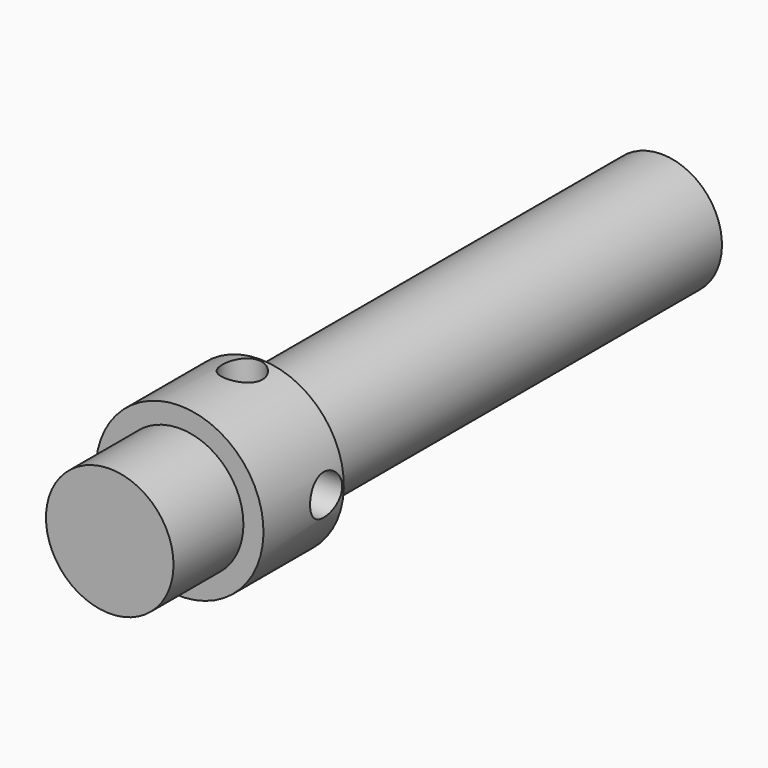
from build123d import *

# Parameters (mm, degrees)
F2_R     = 1
F3_DEPTH = 12.5
F4_R     = 1
F5_DEPTH = 12.5
F6_R     = 3.175
F7_DEPTH = 6.35


with BuildPart() as f1:
    # F0 (on Right) → F1 (revolve)
    with BuildSketch(Plane.YZ):
        Polygon((15, 2), (15, 3), (3.5, 3), (2.5, 3), (-4.5, 3), (-5.5, 3), (-10, 3), (-10, 3.175), (-10, 4.175), (-15, 4.175), (-15, 3.175), (-13, 3.175), (-13, 3), (-13, 0), (-11, 0), (-11, 2), align=None)
        Polygon((15, 2), (15, 3), (3.5, 3), (2.5, 3), (-4.5, 3), (-5.5, 3), (-10, 3), (-10, 3.175), (-10, 4.175), (-15, 4.175), (-15, 3.175), (-13, 3.175), (-13, 3), (-13, 0), (-11, 0), (-11, 2), align=None)
    revolve(axis=Axis((0, -5.9435404837, 0), (0, 1, 0)))

    # F2 (on Right) → F3 (cut, symmetric)
    with BuildSketch(Plane.YZ):
        with Locations((-11.1, 0)):
            Circle(F2_R)
    extrude(amount=F3_DEPTH, both=True, mode=Mode.SUBTRACT)

    # F4 (on Top) → F5 (cut, symmetric)
    with BuildSketch(Plane.XY):
        with Locations((0, -11.1)):
            Circle(F4_R)
    extrude(amount=F5_DEPTH, both=True, mode=Mode.SUBTRACT)


with BuildPart() as f7:
    # F6 (on face) → F7 (new body)
    with BuildSketch(Plane.XZ.offset(13)):
        Circle(F6_R)
    extrude(amount=F7_DEPTH)


solid = Compound([f1.part, f7.part])
